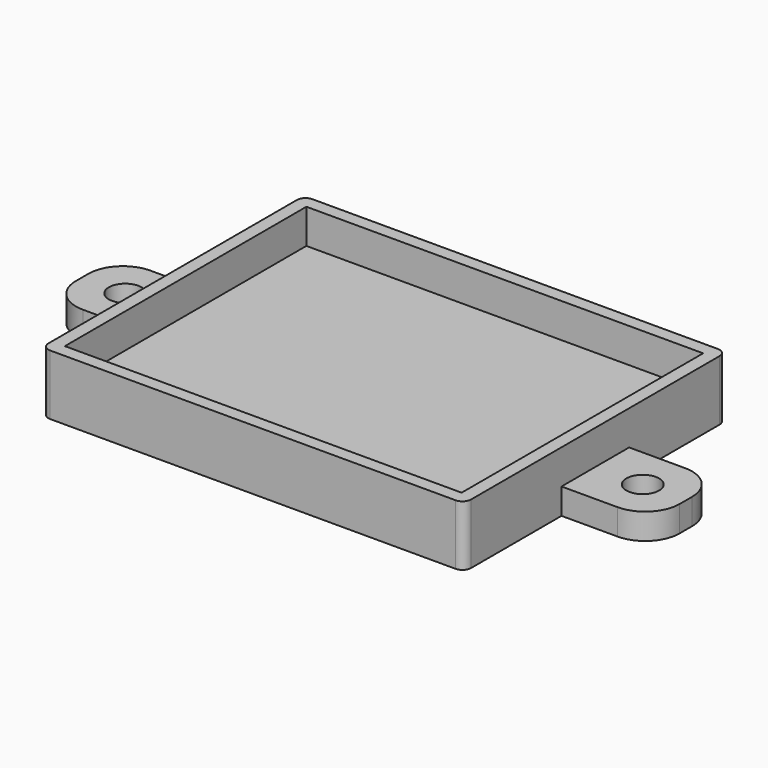
from build123d import *

# Parameters (mm, degrees)
BOX001_W          = 46
BOX001_H          = 35
BOX001_DEPTH      = 4
BOX_W             = 49
BOX_H             = 38
BOX_DEPTH         = 7
FILLET_R          = 1
CYLINDER001_R     = 1.9
CYLINDER001_DEPTH = 10
ARRAY002_X_COUNT  = 2
ARRAY002_X_PITCH  = 60
BOX005_W          = 70
BOX005_H          = 9.8
BOX005_DEPTH      = 3
FILLET002_R       = 4


with BuildPart() as internal_cube:
    # Box001 → Box001 (new body)
    with BuildSketch(Plane(origin=(1.5, 1.5, 3), x_dir=(1, 0, 0), z_dir=(0, 0, 1))):
        with Locations((23, 17.5)):
            Rectangle(BOX001_W, BOX001_H)
    extrude(amount=BOX001_DEPTH)


with BuildPart() as external_fillet:
    # Box → Box (new body)
    with BuildSketch(Plane.XY):
        with Locations((24.5, 19)):
            Rectangle(BOX_W, BOX_H)
    extrude(amount=BOX_DEPTH)

    # Fillet
    fillet_edges = [external_fillet.edges().sort_by_distance(p)[0] for p in [
        (0, 0, 3.5),
        (0, 38, 3.5),
        (49, 0, 3.5),
        (49, 38, 3.5),
    ]]
    fillet(fillet_edges, radius=FILLET_R)


with BuildPart() as attach_hole_array:
    # Cylinder001 → Cylinder001 (new body)
    with BuildSketch(Plane(origin=(5, 4.9, 0), x_dir=(1, 0, 0), z_dir=(0, 0, 1))):
        Circle(CYLINDER001_R)
    extrude(amount=CYLINDER001_DEPTH)

    # Array002 X: attach hole array ×2


with BuildPart() as attach_hole_array_1:
    add(attach_hole_array.part)
    with Locations(*[(i * ARRAY002_X_PITCH, 0, 0) for i in range(1, ARRAY002_X_COUNT)]):
        add(attach_hole_array.part)


with BuildPart() as bread_board_cut:
    # Box005 → Box005 (new body)
    with BuildSketch(Plane.XY):
        with Locations((35, 4.9)):
            Rectangle(BOX005_W, BOX005_H)
    extrude(amount=BOX005_DEPTH)

    # Fillet002
    fillet002_edges = [bread_board_cut.edges().sort_by_distance(p)[0] for p in [
        (0, 0, 1.5),
        (0, 9.8, 1.5),
        (70, 0, 1.5),
        (70, 9.8, 1.5),
    ]]
    fillet(fillet002_edges, radius=FILLET002_R)

    # Cut002: cut attach hole array
    add(attach_hole_array_1.part, mode=Mode.SUBTRACT)


with BuildPart() as bread_board_cut_1:
    # Cut002 placement: moved
    add(bread_board_cut.part.moved(Location((-10.5, 14.1, 0))))

    # Fusion: union external fillet
    add(external_fillet.part)

    # Cut: cut internal cube
    add(internal_cube.part, mode=Mode.SUBTRACT)


solid = bread_board_cut_1.part
